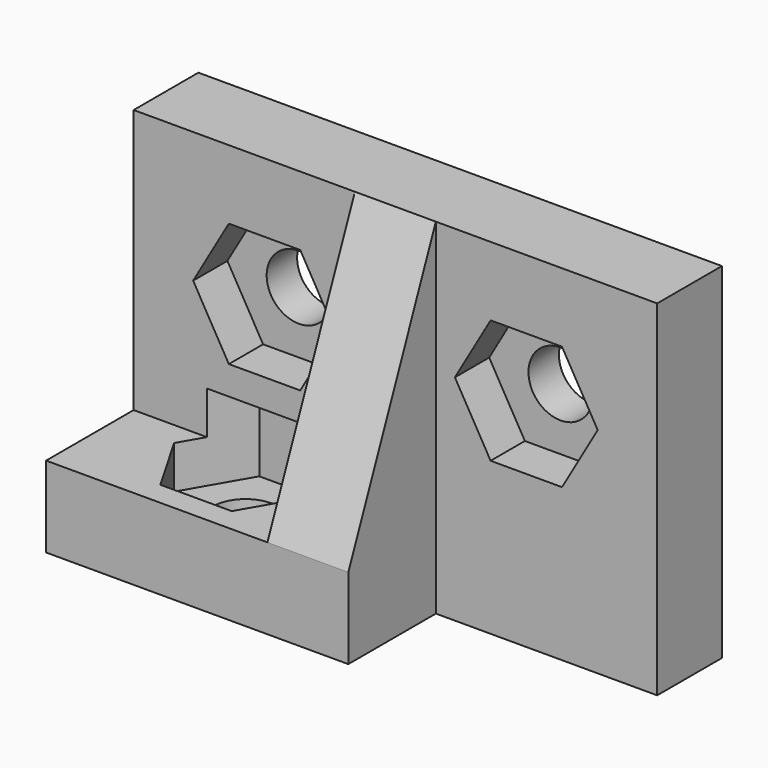
from build123d import *

# Parameters (mm, degrees)
EXTRUDE003_DEPTH  = 3.6
CYLINDER002_R     = 1.35
CYLINDER002_DEPTH = 3.4
EXTRUDE002_DEPTH  = 1.8
CYLINDER003_R     = 1.35
CYLINDER003_DEPTH = 3.4
EXTRUDE001_DEPTH  = 1.8
CYLINDER_R        = 1.35
CYLINDER_DEPTH    = 3.4
BOX_W             = 22
BOX_H             = 3.4
BOX_DEPTH         = 14.5
BOX001_W          = 12.7
BOX001_H          = 4.6
BOX001_DEPTH      = 3.4
EXTRUDE_DEPTH     = 3.4


with BuildPart() as extrude003:
    # Sketch003 → Extrude003 (new body)
    with BuildSketch(Plane(origin=(5.5, -1, 1.6), x_dir=(1, 0, 0), z_dir=(0, 0, 1))):
        Polygon((3, 0), (1.5, 2.598076), (-1.5, 2.598076), (-3, 0), (-1.5, -2.598076), (1.5, -2.598076), align=None)
    extrude(amount=EXTRUDE003_DEPTH)


with BuildPart() as hole03:
    # Cylinder002 → Cylinder002 (new body)
    with BuildSketch(Plane(origin=(5.5, -1, 0), x_dir=(0, 1, 0), z_dir=(0, 0, 1))):
        Circle(CYLINDER002_R)
    extrude(amount=CYLINDER002_DEPTH)

    # Fusion002: union Extrude003
    add(extrude003.part)


with BuildPart() as extrude002:
    # Sketch002 → Extrude002 (new body)
    with BuildSketch(Plane(origin=(16.5, 1.8, 9), x_dir=(1, 0, 0), z_dir=(0, -1, 0))):
        Polygon((3, 0), (1.5, 2.598076), (-1.5, 2.598076), (-3, 0), (-1.5, -2.598076), (1.5, -2.598076), align=None)
    extrude(amount=EXTRUDE002_DEPTH)


with BuildPart() as hole02:
    # Cylinder003 → Cylinder003 (new body)
    with BuildSketch(Plane(origin=(16.5, 3.4, 9), x_dir=(1, 0, 0), z_dir=(0, -1, 0))):
        Circle(CYLINDER003_R)
    extrude(amount=CYLINDER003_DEPTH)

    # Fusion001: union Extrude002
    add(extrude002.part)


with BuildPart() as extrude001:
    # Sketch001 → Extrude001 (new body)
    with BuildSketch(Plane(origin=(5.5, 1.8, 9), x_dir=(1, 0, 0), z_dir=(0, -1, 0))):
        Polygon((3, 0), (1.5, 2.598076), (-1.5, 2.598076), (-3, 0), (-1.5, -2.598076), (1.5, -2.598076), align=None)
    extrude(amount=EXTRUDE001_DEPTH)


with BuildPart() as hole01:
    # Cylinder → Cylinder (new body)
    with BuildSketch(Plane(origin=(5.5, 3.4, 9), x_dir=(1, 0, 0), z_dir=(0, -1, 0))):
        Circle(CYLINDER_R)
    extrude(amount=CYLINDER_DEPTH)

    # Fusion: union Extrude001
    add(extrude001.part)


with BuildPart() as cut001:
    # Box → Box (new body)
    with BuildSketch(Plane.XY):
        with Locations((11, 1.7)):
            Rectangle(BOX_W, BOX_H)
    extrude(amount=BOX_DEPTH)

    # Cut: cut Hole01
    add(hole01.part, mode=Mode.SUBTRACT)

    # Cut001: cut Hole02
    add(hole02.part, mode=Mode.SUBTRACT)


with BuildPart() as cut002:
    # Box001 → Box001 (new body)
    with BuildSketch(Plane(origin=(0, -4.6, 0), x_dir=(1, 0, 0), z_dir=(0, 0, 1))):
        with Locations((6.35, 2.3)):
            Rectangle(BOX001_W, BOX001_H)
    extrude(amount=BOX001_DEPTH)

    # Fusion003: union Cut001
    add(cut001.part)

    # Cut002: cut Hole03
    add(hole03.part, mode=Mode.SUBTRACT)


with BuildPart() as left_hand_bracket:
    # Sketch → Extrude (new body)
    with BuildSketch(Plane(origin=(0, 0, 3.4), x_dir=(0, 1, 0), z_dir=(1, 0, 0))):
        Polygon((0, 11.1), (0, 0), (-4.6, 0), align=None)
    extrude(amount=EXTRUDE_DEPTH)


with BuildPart() as left_hand_bracket_1:
    # Extrude placement: moved
    add(left_hand_bracket.part.moved(Location((9.3, 0, 0))))

    # Fusion004: union Cut002
    add(cut002.part)


solid = left_hand_bracket_1.part
